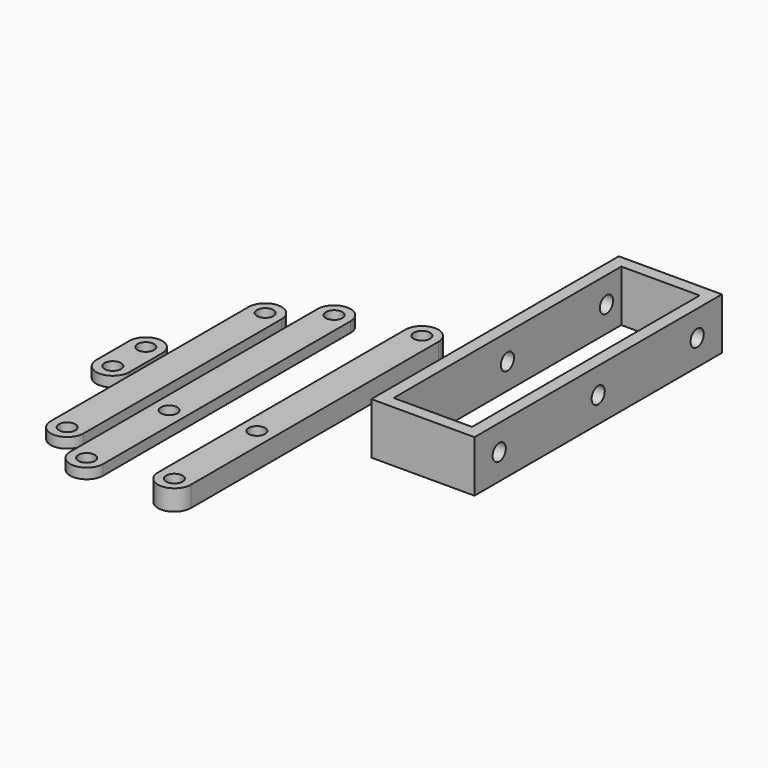
from build123d import *

# Parameters (mm, degrees)
F0_W      = 50
F0_H      = 150
F0_W_2    = 38
F0_H_2    = 138
F1_DEPTH  = 25
F2_R      = 4
F3_DEPTH  = 5
F4_R      = 4
F5_DEPTH  = 5
F6_R      = 4
F7_DEPTH  = 67.1
F8_R      = 4
F9_DEPTH  = 5
F10_R     = 4
F11_DEPTH = 10


with BuildPart() as f1:
    # F0 (on Top) → F1 (new body)
    with BuildSketch(Plane.XY):
        with Locations((78.928293, 75)):
            Rectangle(F0_W, F0_H)
        with Locations((78.928293, 75)):
            Rectangle(F0_W_2, F0_H_2, mode=Mode.SUBTRACT)
    extrude(amount=F1_DEPTH)

    # F6 (on face) → F7 (cut)
    with BuildSketch(Plane.YZ.offset(103.928293)):
        with Locations((15, 12.5)):
            Circle(F6_R)
        with Locations((75, 12.5)):
            Circle(F6_R)
        with Locations((135, 12.5)):
            Circle(F6_R)
    extrude(amount=-F7_DEPTH, mode=Mode.SUBTRACT)


with BuildPart() as f3:
    # F2 (on Top) → F3 (new body)
    with BuildSketch(Plane.XY):
        with BuildLine():
            Line((-16.133936, -75), (-16.133936, 0))
            Line((-16.133936, 0), (-16.133936, 75))
            ThreePointArc((-16.133936, 75), (-24.133936, 83), (-32.133936, 75))
            Line((-32.133936, 75), (-32.133936, 0))
            Line((-32.133936, 0), (-32.133936, -75))
            ThreePointArc((-32.133936, -75), (-24.133936, -83), (-16.133936, -75))
        make_face()
        with Locations((-24.133936, -75)):
            Circle(F2_R, mode=Mode.SUBTRACT)
        with Locations((-24.133936, -25)):
            Circle(F2_R, mode=Mode.SUBTRACT)
        with Locations((-24.133936, 75)):
            Circle(F2_R, mode=Mode.SUBTRACT)
    extrude(amount=F3_DEPTH)


with BuildPart() as f5:
    # F4 (on Top) → F5 (new body)
    with BuildSketch(Plane.XY):
        with BuildLine():
            Line((-37.572027, -60), (-37.572027, 0))
            Line((-37.572027, 0), (-37.572027, 60))
            ThreePointArc((-37.572027, 60), (-45.572027, 68), (-53.572027, 60))
            Line((-53.572027, 60), (-53.572027, 0))
            Line((-53.572027, 0), (-53.572027, -60))
            ThreePointArc((-53.572027, -60), (-45.572027, -68), (-37.572027, -60))
        make_face()
        with Locations((-45.572027, -60)):
            Circle(F4_R, mode=Mode.SUBTRACT)
        with Locations((-45.572027, 60)):
            Circle(F4_R, mode=Mode.SUBTRACT)
    extrude(amount=F5_DEPTH)


with BuildPart() as f9:
    # F8 (on Top) → F9 (new body)
    with BuildSketch(Plane.XY):
        with BuildLine():
            Line((-55.437424, -10), (-55.437424, 0))
            Line((-55.437424, 0), (-55.437424, 10))
            ThreePointArc((-55.437424, 10), (-63.437424, 18), (-71.437424, 10))
            Line((-71.437424, 10), (-71.437424, 0))
            Line((-71.437424, 0), (-71.437424, -10))
            ThreePointArc((-71.437424, -10), (-63.437424, -18), (-55.437424, -10))
        make_face()
        with Locations((-63.437424, -10)):
            Circle(F8_R, mode=Mode.SUBTRACT)
        with Locations((-63.437424, 10)):
            Circle(F8_R, mode=Mode.SUBTRACT)
    extrude(amount=F9_DEPTH)


with BuildPart() as f11:
    # F10 (on Top) → F11 (new body)
    with BuildSketch(Plane.XY):
        with BuildLine():
            Line((26.415282, -75), (26.415282, 0))
            Line((26.415282, 0), (26.415282, 75))
            ThreePointArc((26.415282, 75), (18.415282, 83), (10.415282, 75))
            Line((10.415282, 75), (10.415282, 0))
            Line((10.415282, 0), (10.415282, -75))
            ThreePointArc((10.415282, -75), (18.415282, -83), (26.415282, -75))
        make_face()
        with Locations((18.415282, -75)):
            Circle(F10_R, mode=Mode.SUBTRACT)
        with Locations((18.415282, -25)):
            Circle(F10_R, mode=Mode.SUBTRACT)
        with Locations((18.415282, 75)):
            Circle(F10_R, mode=Mode.SUBTRACT)
    extrude(amount=F11_DEPTH)


solid = Compound([f1.part, f3.part, f5.part, f9.part, f11.part])
